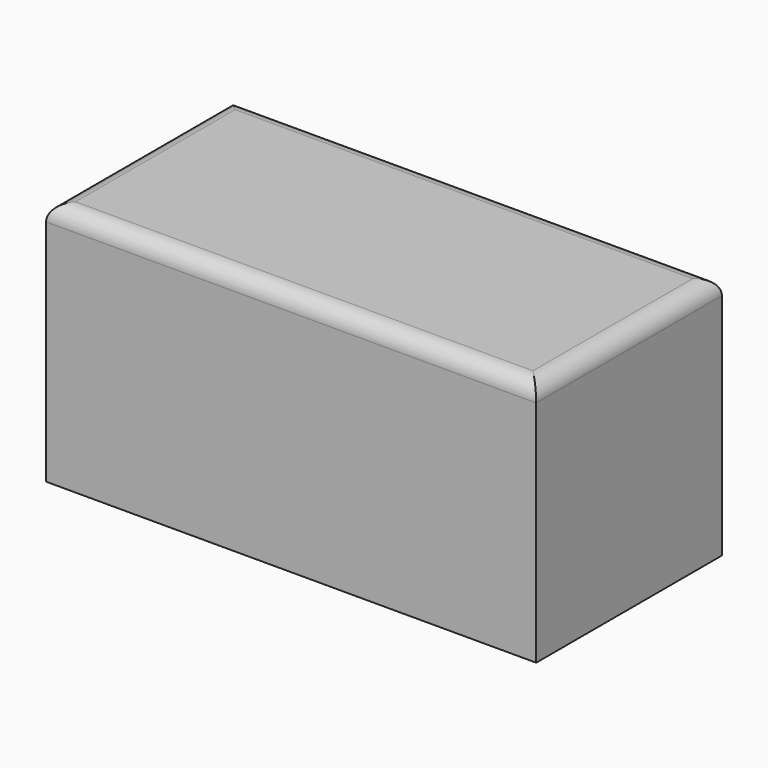
from build123d import *

# Parameters (mm, degrees)
F0_W     = 152.4
F0_H     = 46.7894710547
F1_DEPTH = 76.2
F2_W     = 152.4
F2_H     = 76.2
F3_DEPTH = 25.4
F4_R     = 5.08


with BuildPart() as f1:
    # F0 (on Top) → F1 (new body)
    with BuildSketch(Plane.XY):
        Rectangle(F0_W, F0_H)
    extrude(amount=F1_DEPTH)

    # F2 (on face) → F3 (join)
    with BuildSketch(Plane.XZ.offset(23.3947355273)):
        with Locations((0, 38.1)):
            Rectangle(F2_W, F2_H)
    extrude(amount=F3_DEPTH)

    # F4
    f4_edges = [f1.edges().sort_by_distance(p)[0] for p in [
        (0, 23.394736, 76.2),
        (-76.2, -12.7, 76.2),
        (0, -48.794736, 76.2),
        (76.2, -12.7, 76.2),
    ]]
    fillet(f4_edges, radius=F4_R)


solid = f1.part
